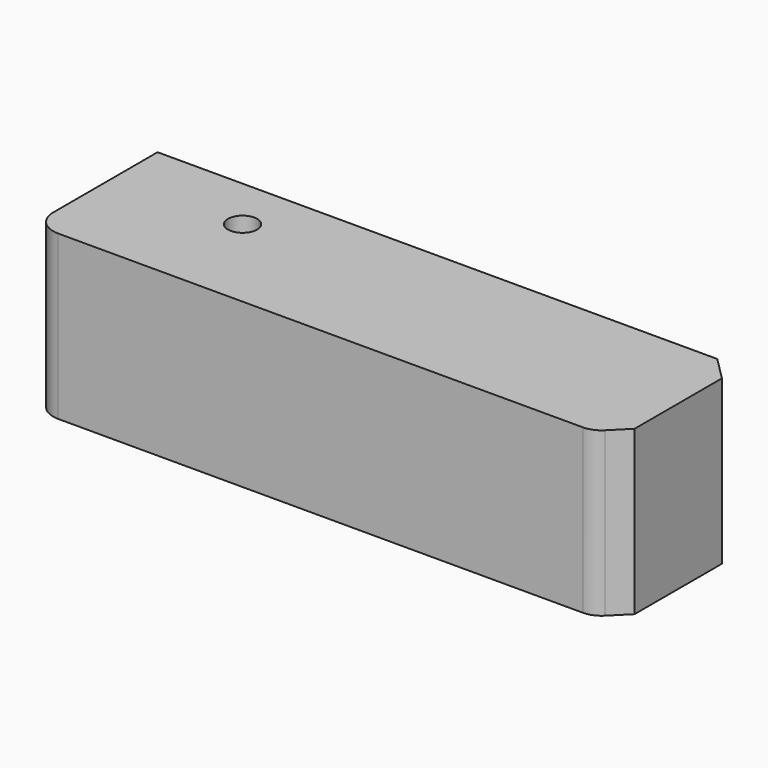
from build123d import *

# Parameters (mm, degrees)
F0_W     = 127
F0_H     = 33.9515097439
F1_DEPTH = 35.56
F2_R     = 5.5188922036
F3_SIZE  = 5.08
F5_D     = 6.35
F6_R     = 5.08
F7_SIZE  = 5.08


with BuildPart() as f1:
    # F0 (on Top) → F1 (new body)
    with BuildSketch(Plane.XY):
        with Locations((63.5, -16.975754872)):
            Rectangle(F0_W, F0_H)
    extrude(amount=F1_DEPTH)

    # F2
    f2_edges = [f1.edges().sort_by_distance(p)[0] for p in [
        (0, -33.95151, 17.78),
    ]]
    fillet(f2_edges, radius=F2_R)

    # F3
    f3_edges = [f1.edges().sort_by_distance(p)[0] for p in [
        (127, -33.95151, 17.78),
    ]]
    chamfer(f3_edges, length=F3_SIZE)

    # F5 (through all)
    with Locations(Plane.XY.offset(35.56)):
        with Locations((27.8624333441, -11.6866370663)):
            Hole(F5_D / 2)

    # F6
    f6_edges = [f1.edges().sort_by_distance(p)[0] for p in [
        (121.92, -33.95151, 17.78),
    ]]
    fillet(f6_edges, radius=F6_R)

    # F7
    f7_edges = [f1.edges().sort_by_distance(p)[0] for p in [
        (127, 0, 17.78),
    ]]
    chamfer(f7_edges, length=F7_SIZE)


solid = f1.part
